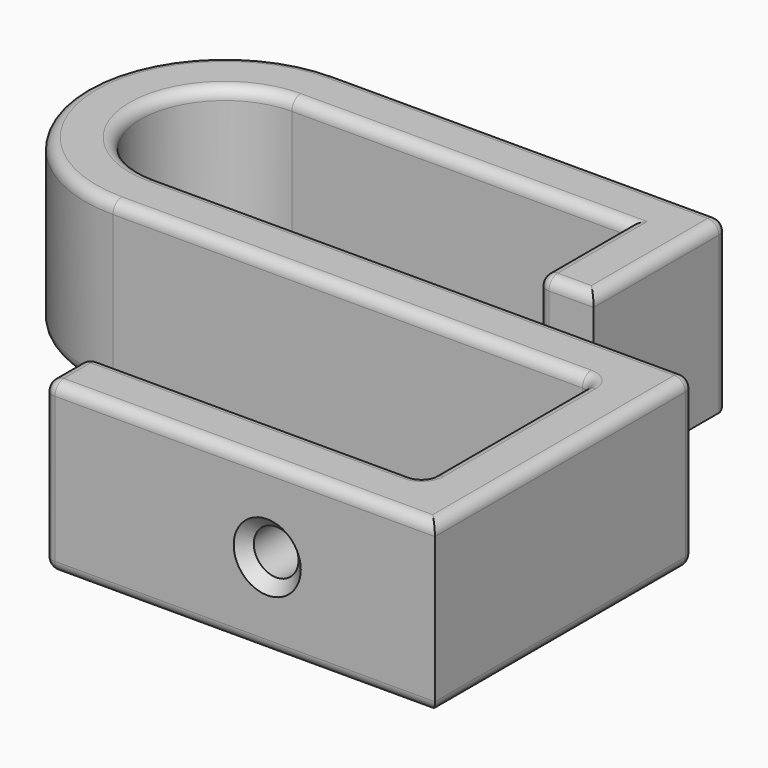
from build123d import *

# Parameters (mm, degrees)
PAD001_DEPTH    = 15
SKETCH003_R     = 2
POCKET001_DEPTH = 5
FILLET001_R     = 1
CHAMFER001_SIZE = 1


with BuildPart() as part:
    # Sketch002 → Pad001 (new body)
    with BuildSketch(Plane.XY):
        with BuildLine():
            Line((-35, 15), (0, 15))
            Line((0, 15), (0, 0))
            Line((0, 0), (-5, 0))
            Line((-5, 0), (-5, 10))
            Line((-5, 10), (-35, 10))
            ThreePointArc((-35, 10), (-42.5, 2.5), (-35, -5))
            Line((-35, -5), (13, -5))
            Line((13, -5), (13, -34))
            Line((13, -34), (-22, -34))
            Line((-22, -34), (-22, -29))
            Line((-22, -29), (8, -29))
            Line((8, -29), (8, -10))
            Line((8, -10), (-35, -10))
            ThreePointArc((-35, 15), (-47.5, 2.5), (-35, -10))
        make_face()
    extrude(amount=PAD001_DEPTH)

    # Sketch003 (on Face9 of Pad001) → Pocket001 (cut)
    with BuildSketch(Plane.XZ.offset(34)):
        with Locations((-2, 7.5)):
            Circle(SKETCH003_R)
    extrude(amount=-POCKET001_DEPTH, mode=Mode.SUBTRACT)

    # Fillet001
    fillet001_edges = [part.edges().sort_by_distance(p)[0] for p in [
        (-22, -29, 7.5),
        (-22, -34, 7.5),
        (-4.5, -34, 15),
        (-7, -29, 15),
        (-7, -29, 0),
        (13, -19.5, 15),
        (8, -19.5, 15),
        (-13.5, -10, 15),
        (-47.5, 2.5, 15),
        (-42.5, 2.5, 15),
        (-47.5, 2.5, 0),
        (-17.5, 15, 0),
        (-17.5, 15, 15),
        (0, 15, 7.5),
        (0, 7.5, 15),
        (-20, 10, 15),
        (-42.5, 2.5, 0),
        (-11, -5, 0),
        (-5, 5, 15),
        (-5, 0, 7.5),
        (13, -5, 7.5),
        (-2.5, 0, 15),
        (8, -29, 7.5),
        (8, -10, 7.5),
        (8, -19.5, 0),
        (-22, -31.5, 15),
        (-22, -31.5, 0),
        (-20, 10, 0),
        (-5, 5, 0),
        (-2.5, 0, 0),
        (-13.5, -10, 0),
        (-4.5, -34, 0),
        (13, -19.5, 0),
    ]]
    fillet(fillet001_edges, radius=FILLET001_R)

    # Chamfer001
    chamfer001_edges = [part.edges().sort_by_distance(p)[0] for p in [
        (-4, -34, 7.5),
    ]]
    chamfer(chamfer001_edges, length=CHAMFER001_SIZE)


solid = part.part
